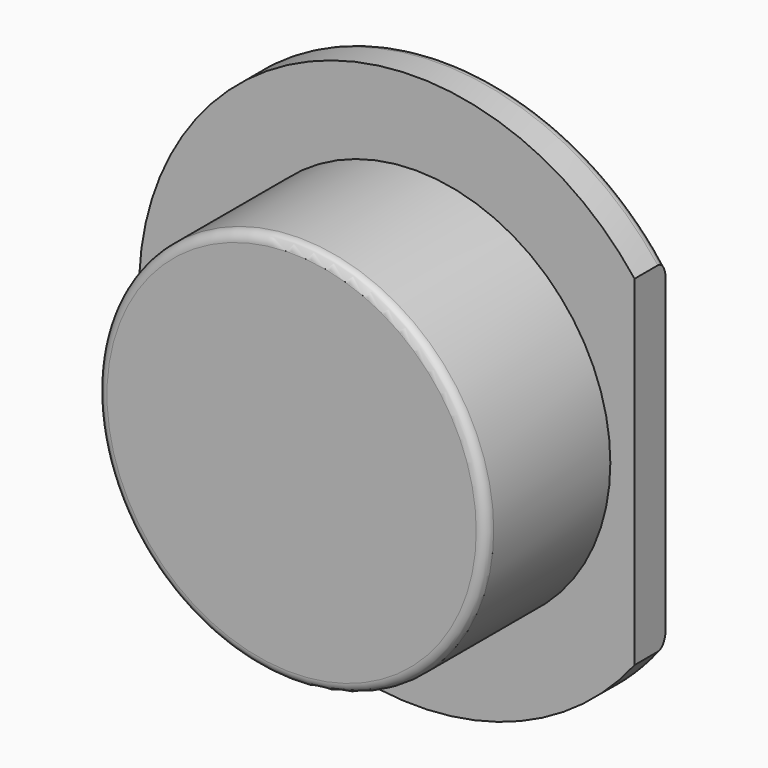
from build123d import *

# Parameters (mm, degrees)
F0_R     = 2.85
F1_DEPTH = 0.4
F2_R     = 2
F3_DEPTH = 1.6
F4_R     = 0.1
F6_DEPTH = 25


with BuildPart() as f1:
    # F0 (on Front) → F1 (new body)
    with BuildSketch(Plane.XZ):
        Circle(F0_R)
    extrude(amount=F1_DEPTH)

    # F2 (on face) → F3 (join)
    with BuildSketch(Plane.XZ.offset(0.4)):
        Circle(F2_R)
    extrude(amount=F3_DEPTH)

    # F4
    f4_edges = [f1.edges().sort_by_distance(p)[0] for p in [
        (-2, -2, 0),
        (-2.85, 0, 0),
    ]]
    fillet(f4_edges, radius=F4_R)

    # F5 (on face) → F6 (cut)
    with BuildSketch(Plane(origin=(0, 0, 0), x_dir=(-1, 0, 0), z_dir=(0, 1, 0))):
        with BuildLine():
            Line((-2.249444, -1.75), (-2.249444, 1.75))
            ThreePointArc((-2.249444, 1.75), (-2.85, 0), (-2.249444, -1.75))
        make_face()
    extrude(amount=-F6_DEPTH, mode=Mode.SUBTRACT)


solid = f1.part
